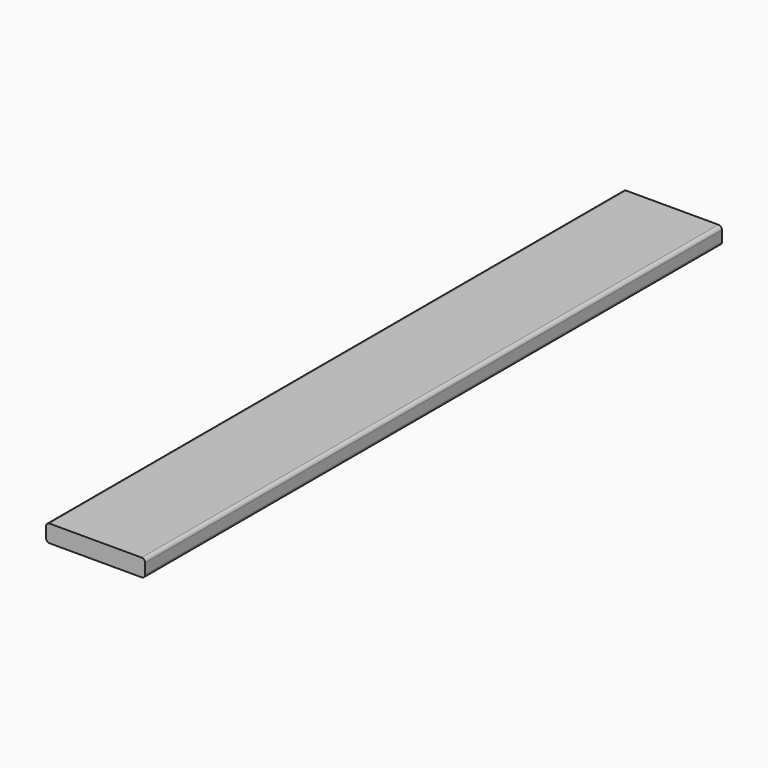
from build123d import *

# Parameters (mm, degrees)
F1_DEPTH = 495.3


with BuildPart() as f1:
    # F0 (on Front) → F1 (new body, symmetric)
    with BuildSketch(Plane.XZ):
        with BuildLine():
            Line((63.246, 11.938), (-63.246, 11.938))
            ThreePointArc((-63.246, 11.938), (-66.658497, 10.524497), (-68.072, 7.112))
            Line((-68.072, 7.112), (-68.072, -7.112))
            ThreePointArc((-68.072, -7.112), (-66.658497, -10.524497), (-63.246, -11.938))
            Line((-63.246, -11.938), (63.246, -11.938))
            ThreePointArc((63.246, -11.938), (66.658497, -10.524497), (68.072, -7.112))
            Line((68.072, -7.112), (68.072, 7.112))
            ThreePointArc((68.072, 7.112), (66.658497, 10.524497), (63.246, 11.938))
        make_face()
    extrude(amount=F1_DEPTH, both=True)


solid = f1.part
